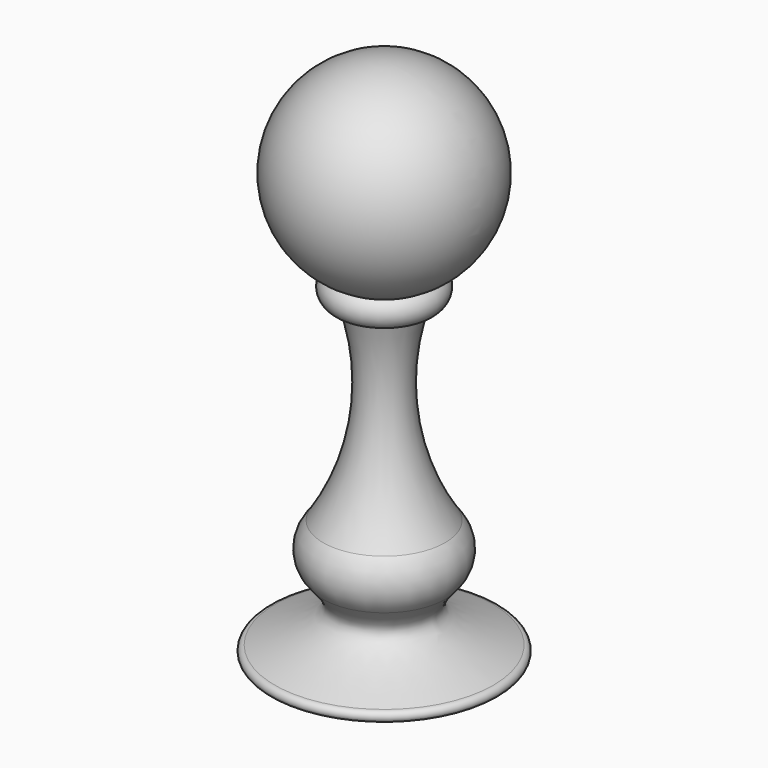
from build123d import *


with BuildPart() as f1:
    # F0 (on Front) → F1 (revolve)
    with BuildSketch(Plane.XZ):
        with BuildLine():
            ThreePointArc((3.4089614412, 24.5809284006), (6.9711246406, 32.6684981496), (0, 38.1))
            Line((0, 38.1), (0, 0))
            Line((0, 0), (7.9375, 0))
            ThreePointArc((7.9375, 0), (8.3142796152, 0.3767796152), (7.9375, 0.7535592304))
            add(Edge.make_bspline(
                [(4.4289799407, 5.0970371813), (3.8652116037, 4.447307109), (2.4266767475, 2.7894286959), (5.8536021882, 1.5234158797), (7.9375, 0.7535592304)],
                knots=[0, 0, 0, 0, 0.3919045372, 1, 1, 1, 1], degree=3))
            ThreePointArc((4.4289799407, 5.0970371813), (5.1574363772, 6.9059464149), (4.4289799407, 8.7148556486))
            ThreePointArc((4.4289799407, 8.7148556486), (1.9305085977, 15.5362857998), (2.6656309819, 22.7635856718))
            Line((2.6656309819, 22.7635856718), (3.4089614412, 22.7635856718))
            ThreePointArc((3.4089614412, 22.7635856718), (3.8588998931, 23.6722570362), (3.4089614412, 24.5809284006))
        make_face()
    revolve(axis=Axis((0, 0, 19.05), (0, 0, -1)))


solid = f1.part
